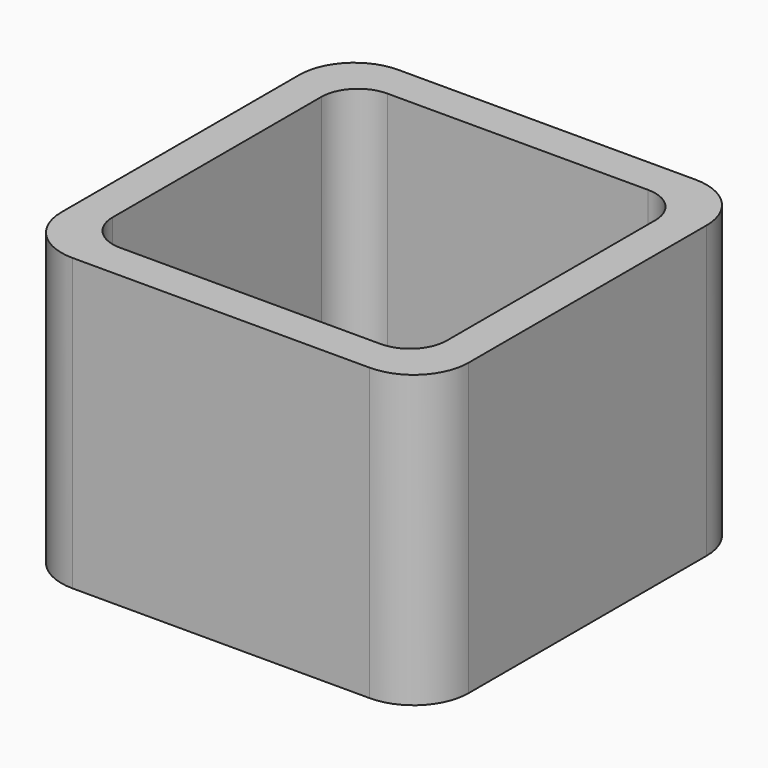
from build123d import *

# Parameters (mm, degrees)
EXTRUDE_DEPTH = 50


with BuildPart() as part:
    # Sketch → Extrude (new body)
    with BuildSketch(Plane.XY):
        with BuildLine():
            Line((-25.55, 35), (25.55, 35))
            ThreePointArc((35, 25.55), (32.232159, 32.232159), (25.55, 35))
            Line((35, 25.55), (35, -25.55))
            ThreePointArc((25.55, -35), (32.232159, -32.232159), (35, -25.55))
            Line((25.55, -35), (-25.55, -35))
            ThreePointArc((-35, -25.55), (-32.232159, -32.232159), (-25.55, -35))
            Line((-35, -25.55), (-35, 25.55))
            ThreePointArc((-25.55, 35), (-32.232159, 32.232159), (-35, 25.55))
        make_face()
        with BuildLine():
            Line((-22.4, 28.7), (22.4, 28.7))
            ThreePointArc((28.7, 22.4), (26.854773, 26.854773), (22.4, 28.7))
            Line((28.7, 22.4), (28.7, -22.4))
            ThreePointArc((22.4, -28.7), (26.854773, -26.854773), (28.7, -22.4))
            Line((22.4, -28.7), (-22.4, -28.7))
            ThreePointArc((-28.7, -22.4), (-26.854773, -26.854773), (-22.4, -28.7))
            Line((-28.7, -22.4), (-28.7, 22.4))
            ThreePointArc((-22.4, 28.7), (-26.854773, 26.854773), (-28.7, 22.4))
        make_face(mode=Mode.SUBTRACT)
    extrude(amount=EXTRUDE_DEPTH)


solid = part.part
